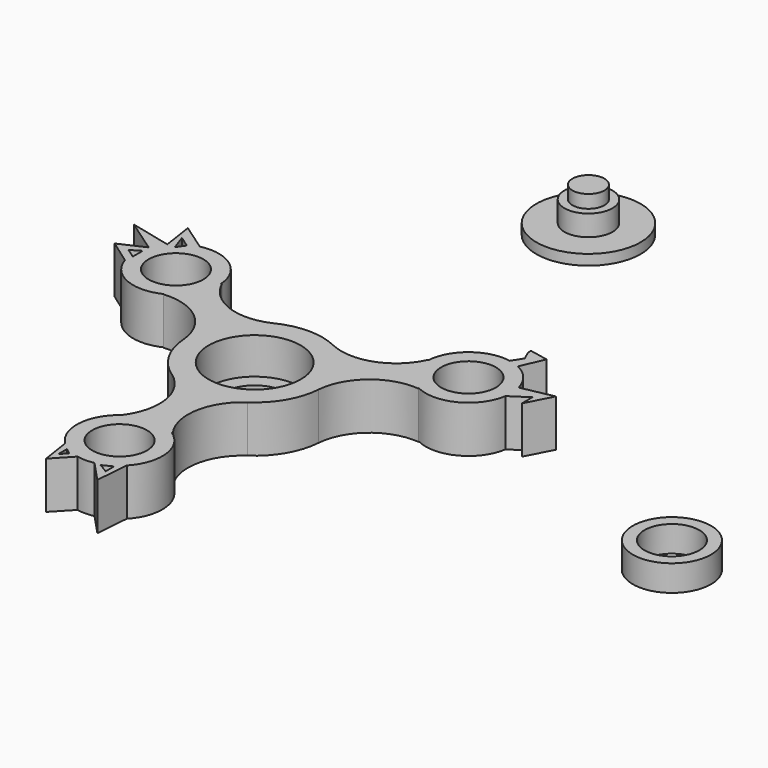
from build123d import *

# Parameters (mm, degrees)
F0_R      = 5.8547
F1_DEPTH  = 5.08
F2_R      = 3.8989
F3_DEPTH  = 3.175
F4_R      = 12.7
F5_DEPTH  = 2.54
F6_R      = 9.525
F6_R_2    = 6.6675
F7_DEPTH  = 6.35
F8_R      = 16.51
F8_R_2    = 7.62
F9_DEPTH  = 11.43
F10_R     = 11.2141
F11_DEPTH = 8.89
F13_DEPTH = 11.43
F14_R     = 10.42259
F15_DEPTH = 11.43
F17_DEPTH = 11.43
F19_DEPTH = 11.43
F21_DEPTH = 2.54
F23_DEPTH = 11.43
F25_DEPTH = 2.54
F26_R     = 6.6675
F27_DEPTH = 254
F29_DEPTH = 2.54
F31_DEPTH = 2.54


with BuildPart() as f1:
    # F0 (on Top) → F1 (new body)
    with BuildSketch(Plane.XY):
        with Locations((0, 101.6)):
            Circle(F0_R)
    extrude(amount=F1_DEPTH)

    # F2 (on face) → F3 (join)
    with BuildSketch(Plane.XY.offset(5.08)):
        with Locations((0, 101.6)):
            Circle(F2_R)
    extrude(amount=F3_DEPTH)

    # F4 (on face) → F5 (join)
    with BuildSketch(Plane(origin=(0, 0, 0), x_dir=(1, 0, 0), z_dir=(0, 0, -1))):
        with Locations((0, -101.6)):
            Circle(F4_R)
    extrude(amount=F5_DEPTH)


with BuildPart() as f7:
    # F6 (on Top) → F7 (new body)
    with BuildSketch(Plane.XY):
        with Locations((101.6, 0)):
            Circle(F6_R)
        with Locations((101.6, 0)):
            Circle(F6_R_2, mode=Mode.SUBTRACT)
    extrude(amount=F7_DEPTH)


with BuildPart() as f9:
    # F8 (on Top) → F9 (new body)
    with BuildSketch(Plane.XY):
        Circle(F8_R)
        Circle(F8_R_2, mode=Mode.SUBTRACT)
    extrude(amount=F9_DEPTH)

    # F10 (on face) → F11 (cut)
    with BuildSketch(Plane.XY.offset(11.43)):
        Circle(F10_R)
    extrude(amount=-F11_DEPTH, mode=Mode.SUBTRACT)

    # F12 (on face) → F13 (join)
    with BuildSketch(Plane.XY.offset(11.43)):
        with BuildLine():
            ThreePointArc((5.98536, -32.414889), (3.68152, -22.382304), (9.212453, -13.700759))
            Line((9.212453, -13.700759), (-9.212453, -13.700759))
            ThreePointArc((-9.212453, -13.700759), (-3.68152, -22.382304), (-5.98536, -32.414889))
            Line((-5.98536, -32.414889), (5.98536, -32.414889))
        make_face()
        with BuildLine():
            ThreePointArc((25.079437, 21.390918), (17.542884, 14.379441), (7.258979, 14.828598))
            Line((7.258979, 14.828598), (16.471432, -1.127839))
            ThreePointArc((16.471432, -1.127839), (21.224403, 8.002862), (31.064797, 11.023971))
            Line((31.064797, 11.023971), (25.079437, 21.390918))
        make_face()
        with BuildLine():
            ThreePointArc((-31.064797, 11.023971), (-21.224403, 8.002862), (-16.471432, -1.127839))
            Line((-16.471432, -1.127839), (-7.258979, 14.828598))
            ThreePointArc((-7.258979, 14.828598), (-17.542884, 14.379441), (-25.079437, 21.390918))
            Line((-25.079437, 21.390918), (-31.064797, 11.023971))
        make_face()
    extrude(amount=-F13_DEPTH)

    # F14 (on face) → F15 (join)
    with BuildSketch(Plane.XY.offset(11.43)):
        with Locations((0, -41.122314)):
            Circle(F14_R)
        with Locations((35.612968, 20.561157)):
            Circle(F14_R)
        with Locations((-35.612968, 20.561157)):
            Circle(F14_R)
    extrude(amount=-F15_DEPTH)

    # F16 (on face) → F17 (join)
    with BuildSketch(Plane(origin=(0, 0, 0), x_dir=(1, 0, 0), z_dir=(0, 0, -1))):
        Polygon((-6.212419, 55.731084), (-7.317794, 48.543923), (7.521274, 48.337632), (6.865877, 56.478415), (2.062512, 51.338792), (-2.062512, 51.338792), align=None)
    extrude(amount=-F17_DEPTH)

    # F18 (on face) → F19 (join)
    with BuildSketch(Plane(origin=(0, 0, 0), x_dir=(1, 0, 0), z_dir=(0, 0, -1))):
        Polygon((-44.473318, -35.247321), (-37.940599, -30.720513), (-45.564884, -17.464423), (-51.372606, -21.600267), (-45.311758, -24.37742), (-53.428173, -30.00164), (-43.328464, -27.568404), align=None)
    extrude(amount=-F19_DEPTH)

    # F20 (on face) → F21 (cut)
    with BuildSketch(Plane(origin=(0, 0, 0), x_dir=(1, 0, 0), z_dir=(0, 0, -1))):
        Polygon((-42.699587, -32.62233), (-40.649235, -31.070197), (-42.19266, -29.756567), align=None)
        Polygon((-48.453345, -20.913697), (-46.58173, -21.771293), (-46.179816, -19.975295), align=None)
    extrude(amount=-F21_DEPTH, mode=Mode.SUBTRACT)

    # F22 (on face) → F23 (join)
    with BuildSketch(Plane(origin=(0, 0, 0), x_dir=(1, 0, 0), z_dir=(0, 0, -1))):
        Polygon((50.218709, -21.79723), (45.910077, -18.948722), (43.793466, -18.524475), (35.480846, -26.646961), (35.480846, -27.657114), (39.078787, -33.36205), (38.04455, -35.630021), (38.04455, -36.547828), (42.585161, -35.630021), (39.078787, -27.657114), (43.793466, -22.880767), (53.471625, -24.820628), (50.218709, -18.525613), align=None)
    extrude(amount=-F23_DEPTH)

    # F24 (on face) → F25 (cut)
    with BuildSketch(Plane(origin=(0, 0, 0), x_dir=(1, 0, 0), z_dir=(0, 0, -1))):
        Polygon((-5.811757, 53.071145), (-5.811757, 50.249595), (-3.554519, 51.025521), align=None)
        Polygon((6.109278, 50.249595), (5.9682, 53.071145), (4.134195, 51.338792), align=None)
    extrude(amount=-F25_DEPTH, mode=Mode.SUBTRACT)

    # F26 (on face) → F27 (cut)
    with BuildSketch(Plane(origin=(0, 0, 0), x_dir=(1, 0, 0), z_dir=(0, 0, -1))):
        with Locations((0, 41.122314)):
            Circle(F26_R)
        with Locations((-35.612968, -20.561157)):
            Circle(F26_R)
        with Locations((35.612968, -20.561157)):
            Circle(F26_R)
    extrude(amount=-F27_DEPTH, mode=Mode.SUBTRACT)

    # F28 (on face) → F29 (cut)
    with BuildSketch(Plane.XY.offset(11.43)):
        Polygon((3.530147, -51.327299), (5.898153, -52.725405), (5.898153, -50.14094), align=None)
        Polygon((-5.573871, -52.725405), (-4.090189, -51.338792), (-5.573871, -50.14094), align=None)
    extrude(amount=-F29_DEPTH, mode=Mode.SUBTRACT)

    # F30 (on face) → F31 (cut)
    with BuildSketch(Plane.XY.offset(11.43)):
        Polygon((-41.479527, 27.568404), (-40.128153, 29.513068), (-42.830901, 31.385921), align=None)
        Polygon((-47.672383, 21.168125), (-45.311758, 19.532345), (-45.311758, 21.168125), (-45.311758, 22.566194), align=None)
    extrude(amount=-F31_DEPTH, mode=Mode.SUBTRACT)


solid = Compound([f1.part, f7.part, f9.part])
